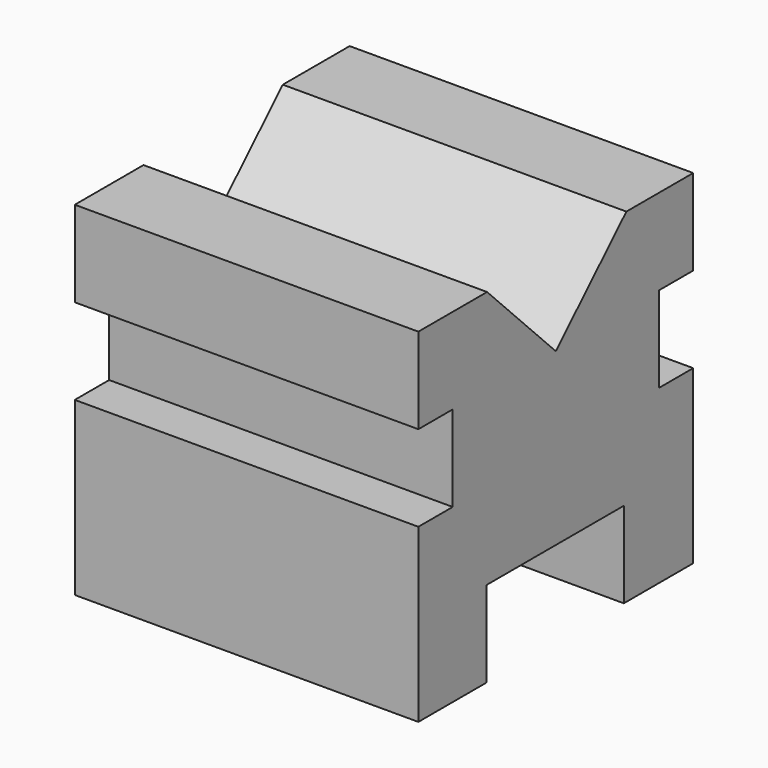
from build123d import *

# Parameters (mm, degrees)
F0_W     = 101.6
F0_H     = 101.6
F1_DEPTH = 101.6
F2_W     = 12.7
F2_H     = 25.4
F2_W_2   = 25.644753
F2_W_3   = 25.155247
F3_DEPTH = 101.6


with BuildPart() as f1:
    # F0 (on Top) → F1 (new body)
    with BuildSketch(Plane.XY):
        with Locations((-50.8, -50.8)):
            Rectangle(F0_W, F0_H)
    extrude(amount=F1_DEPTH)

    # F2 (on face) → F3 (cut)
    with BuildSketch(Plane.YZ):
        Polygon((-50.8, 101.6), (-76.2, 101.6), (-50.8, 75.85644), align=None)
        Polygon((-50.8, 101.6), (-50.8, 75.85644), (-24.708233, 101.6), align=None)
        with Locations((-95.25, 63.5)):
            Rectangle(F2_W, F2_H)
        with Locations((-63.622376, 12.7)):
            Rectangle(F2_W_2, F2_H)
        with Locations((-38.222376, 12.7)):
            Rectangle(F2_W_3, F2_H)
        with Locations((-6.35, 63.5)):
            Rectangle(F2_W, F2_H)
    extrude(amount=-F3_DEPTH, mode=Mode.SUBTRACT)


solid = f1.part
